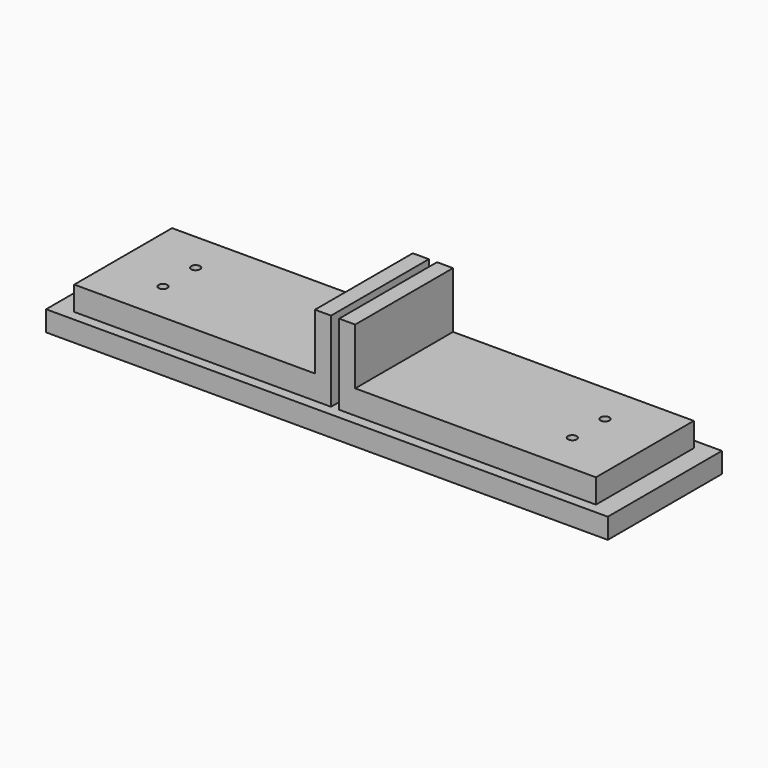
from build123d import *

# Parameters (mm, degrees)
F1_DEPTH = 38.1
F2_W     = 350
F2_H     = 88.9
F2_R     = 2.75
F3_DEPTH = 12.7
F4_R     = 2.75
F5_DEPTH = 15


with BuildPart() as f1:
    # F0 (on Front) → F1 (new body, symmetric)
    with BuildSketch(Plane.XZ):
        Polygon((-12.54, 15), (-162.54, 15), (-162.54, 0), (-2.54, 0), (-2.54, 50), (-12.54, 50), align=None)
        Polygon((12.54, 15), (12.54, 50), (2.54, 50), (2.54, 0), (162.54, 0), (162.54, 15), align=None)
    extrude(amount=F1_DEPTH, both=True)

    # F4 (on face) → F5 (cut, through all)
    with BuildSketch(Plane.XY.offset(15)):
        with Locations((-127.54, -12.7)):
            Circle(F4_R)
        with Locations((127.54, -12.7)):
            Circle(F4_R)
        with Locations((127.54, 12.7)):
            Circle(F4_R)
        with Locations((-127.54, 12.7)):
            Circle(F4_R)
    extrude(amount=-F5_DEPTH, mode=Mode.SUBTRACT)


with BuildPart() as f3:
    # F2 (on Top) → F3 (new body)
    with BuildSketch(Plane.XY):
        Rectangle(F2_W, F2_H)
        with Locations((-130, -12.7)):
            Circle(F2_R, mode=Mode.SUBTRACT)
        with Locations((130, -12.7)):
            Circle(F2_R, mode=Mode.SUBTRACT)
        with Locations((-130, 12.7)):
            Circle(F2_R, mode=Mode.SUBTRACT)
        with Locations((130, 12.7)):
            Circle(F2_R, mode=Mode.SUBTRACT)
    extrude(amount=-F3_DEPTH)


solid = Compound([f1.part, f3.part])
